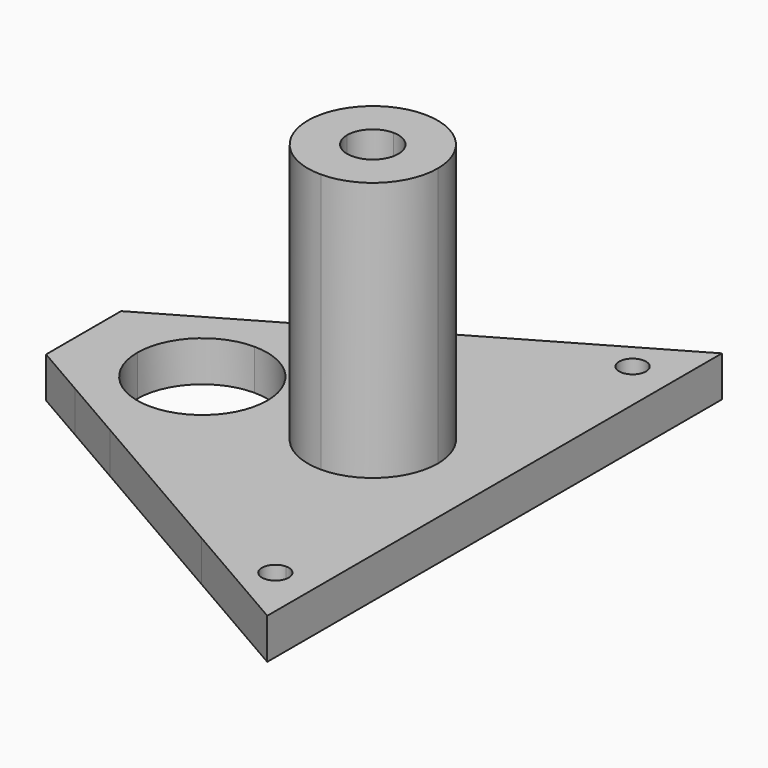
from build123d import *

# Parameters (mm, degrees)
F1_DEPTH = 5
F2_DEPTH = 37


with BuildPart() as f1:
    # F0 (on Top) → F1 (new body)
    with BuildSketch(Plane.XY):
        with BuildLine():
            Line((-3.35, 62.5), (0, 62.5))
            Line((0, 62.5), (0, 70))
            Line((0, 70), (-15, 61.3397447815))
            Line((-15, 61.3397447815), (-15, 43))
            ThreePointArc((-15, 43), (-9.3431457505, 40.6568542495), (-7, 35))
            Line((-7, 35), (-5, 35))
            Line((-5, 35), (-5, 60.85))
            ThreePointArc((-5, 60.85), (-6.166726189, 63.666726189), (-3.35, 62.5))
        make_face()
        with BuildLine():
            Line((-5, 35), (0, 35))
            Line((0, 35), (0, 62.5))
            Line((0, 62.5), (-3.35, 62.5))
            ThreePointArc((-3.35, 62.5), (-3.833273811, 61.333273811), (-5, 60.85))
            Line((-5, 60.85), (-5, 35))
        make_face()
        with BuildLine():
            Line((-3.35, 7.5), (0, 7.5))
            Line((0, 7.5), (0, 35))
            Line((0, 35), (-5, 35))
            Line((-5, 35), (-5, 9.15))
            ThreePointArc((-5, 9.15), (-3.833273811, 8.666726189), (-3.35, 7.5))
        make_face()
        with BuildLine():
            Line((-15, 8.6602552185), (0, 0))
            Line((0, 0), (0, 7.5))
            Line((0, 7.5), (-3.35, 7.5))
            ThreePointArc((-3.35, 7.5), (-6.166726189, 6.333273811), (-5, 9.15))
            Line((-5, 9.15), (-5, 35))
            Line((-5, 35), (-7, 35))
            ThreePointArc((-7, 35), (-9.3431457505, 29.3431457505), (-15, 27))
            Line((-15, 27), (-15, 8.6602552185))
        make_face()
        with BuildLine():
            Line((-36, 20.7846125245), (-15, 8.6602552185))
            Line((-15, 8.6602552185), (-15, 27))
            ThreePointArc((-15, 27), (-20.6568542495, 29.3431457505), (-23, 35))
            Line((-23, 35), (-28, 35))
            ThreePointArc((-28, 35), (-30.3431457505, 29.3431457505), (-36, 27))
            Line((-36, 27), (-36, 20.7846125245))
        make_face()
        with BuildLine():
            Line((-28, 35), (-23, 35))
            ThreePointArc((-23, 35), (-20.6568542495, 40.6568542495), (-15, 43))
            Line((-15, 43), (-15, 61.3397447815))
            Line((-15, 61.3397447815), (-36, 49.2153874755))
            Line((-36, 49.2153874755), (-36, 43))
            ThreePointArc((-36, 43), (-30.3431457505, 40.6568542495), (-28, 35))
        make_face()
        with BuildLine():
            Line((-44, 44.5965846923), (-44, 35))
            ThreePointArc((-44, 35), (-41.6568542495, 40.6568542495), (-36, 43))
            Line((-36, 43), (-36, 49.2153874755))
            Line((-36, 49.2153874755), (-44, 44.5965846923))
        make_face()
        with BuildLine():
            Line((-44, 25.4034153077), (-36, 20.7846125245))
            Line((-36, 20.7846125245), (-36, 27))
            ThreePointArc((-36, 27), (-41.6568542495, 29.3431457505), (-44, 35))
            Line((-44, 35), (-44, 25.4034153077))
        make_face()
        Polygon((-50.62177, 29.226496521), (-44, 25.4034153077), (-44, 35), (-50.62177, 35), align=None)
        Polygon((-50.62177, 35), (-44, 35), (-44, 44.5965846923), (-50.62177, 40.773503479), align=None)
    extrude(amount=F1_DEPTH)

    # F0 (on Top) → F2 (join)
    with BuildSketch(Plane.XY):
        with BuildLine():
            ThreePointArc((-15, 43), (-20.6568542495, 40.6568542495), (-23, 35))
            Line((-23, 35), (-18.15, 35))
            ThreePointArc((-18.15, 35), (-17.2273863607, 37.2273863607), (-15, 38.15))
            Line((-15, 38.15), (-15, 43))
        make_face()
        with BuildLine():
            Line((-11.85, 35), (-7, 35))
            ThreePointArc((-7, 35), (-9.3431457505, 40.6568542495), (-15, 43))
            Line((-15, 43), (-15, 38.15))
            ThreePointArc((-15, 38.15), (-12.7726136393, 37.2273863607), (-11.85, 35))
        make_face()
        with BuildLine():
            Line((-15, 31.85), (-15, 27))
            ThreePointArc((-15, 27), (-9.3431457505, 29.3431457505), (-7, 35))
            Line((-7, 35), (-11.85, 35))
            ThreePointArc((-11.85, 35), (-12.7726136393, 32.7726136393), (-15, 31.85))
        make_face()
        with BuildLine():
            ThreePointArc((-23, 35), (-20.6568542495, 29.3431457505), (-15, 27))
            Line((-15, 27), (-15, 31.85))
            ThreePointArc((-15, 31.85), (-17.2273863607, 32.7726136393), (-18.15, 35))
            Line((-18.15, 35), (-23, 35))
        make_face()
    extrude(amount=F2_DEPTH)


solid = f1.part
